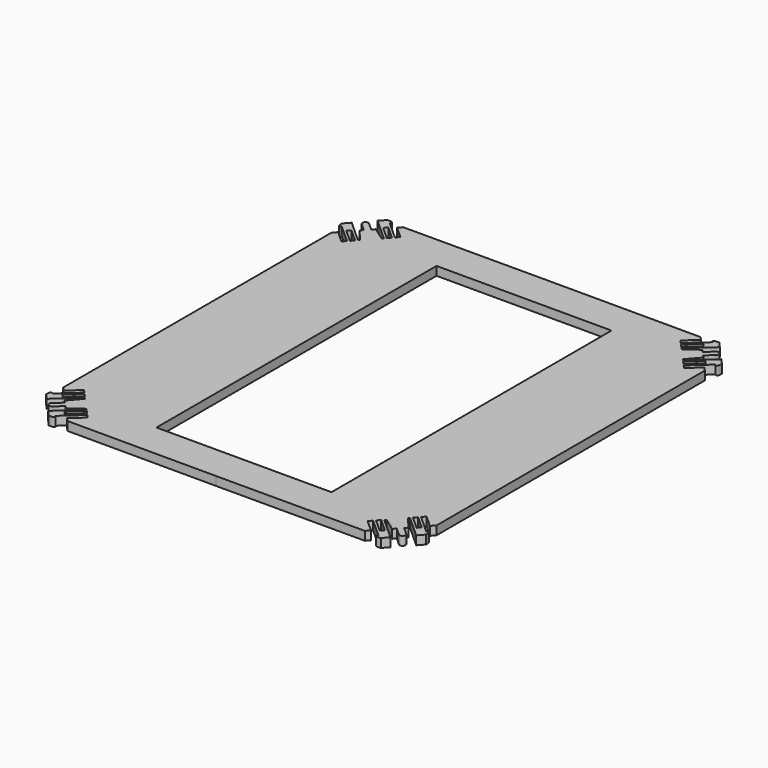
from build123d import *

# Parameters (mm, degrees)
F1_DEPTH = 3
F4_W     = 60
F4_H     = 120
F5_DEPTH = 3


with BuildPart() as f1:
    # F0 (on Top) → F1 (new body)
    with BuildSketch(Plane.XY):
        with BuildLine():
            Line((64, 0), (64, 57.4883735822))
            Line((64, 57.4883735822), (62.8046343071, 58.8159616805))
            Line((62.8046343071, 58.8159616805), (58.717337767, 55.1357433455))
            Line((58.717337767, 55.1357433455), (57.7064563618, 56.2584408851))
            Line((57.7064563618, 56.2584408851), (64.0975018609, 62.0129640998))
            add(Edge.make_bspline(
                [(64.0975018609, 62.0129640998), (64.2947499686, 61.8134944285), (64.7475356166, 61.0205339905), (65.2331012875, 62.6495131608), (65.0931958217, 63.4477440608)],
                knots=[0, 0, 0, 0, 0.3763533344, 1, 1, 1, 1], degree=3))
            Line((65.0931958217, 63.4477440608), (63.3534562452, 65.379920607))
            Line((63.3534562452, 65.379920607), (55.6990645427, 58.4878753615))
            Line((55.6990645427, 58.4878753615), (55.3495648702, 59.0087018934))
            Line((55.3495648702, 59.0087018934), (58.971833562, 63.1474419824))
            Line((58.971833562, 63.1474419824), (58.1506918082, 64.0594122905))
            Line((58.1506918082, 64.0594122905), (60.7529463893, 66.4024928396))
            ThreePointArc((60.7529463893, 66.4024928396), (60.8269606084, 67.8147682715), (59.4146851766, 67.8887824906))
            Line((59.4146851766, 67.8887824906), (56.8124305955, 65.5457019415))
            Line((56.8124305955, 65.5457019415), (55.9912888418, 66.4576722496))
            Line((55.9912888418, 66.4576722496), (51.4965910242, 63.2878628661))
            Line((51.4965910242, 63.2878628661), (51.0151502982, 63.6898891399))
            Line((51.0151502982, 63.6898891399), (58.6695420007, 70.5819343854))
            Line((58.6695420007, 70.5819343854), (56.9298024241, 72.5141109316))
            add(Edge.make_bspline(
                [(55.3988039783, 71.673846831), (55.2210450643, 71.8908646511), (54.4797575345, 72.424056828), (56.1505684198, 72.7366878299), (56.9298024241, 72.5141109316)],
                knots=[0, 0, 0, 0, 0.3763533344, 1, 1, 1, 1], degree=3))
            Line((55.3988039783, 71.673846831), (49.0077584792, 65.9193236163))
            Line((49.0077584792, 65.9193236163), (47.996877074, 67.0420211559))
            Line((47.996877074, 67.0420211559), (52.0841736141, 70.7222394909))
            Line((52.0841736141, 70.7222394909), (50.9930178895, 71.9340906943))
            Line((50.9930178895, 71.9340906943), (0, 72))
            Line((0, 72), (0, 0))
            Line((0, 0), (64, 0))
        make_face()
        Polygon((61.6300208296, 60.8677403836), (57.1711518767, 56.8529567455), (56.2343690278, 57.8933595012), (60.6932379807, 61.9081431393), align=None, mode=Mode.SUBTRACT)
        Polygon((50.4798458131, 64.2844050003), (49.5430629642, 65.3248077559), (54.0019319171, 69.3395913941), (54.938714766, 68.2991886384), align=None, mode=Mode.SUBTRACT)
    extrude(amount=F1_DEPTH)

    # F2: F1 across face


with BuildPart() as f1_1:
    add(f1.part)
    add(f1.part.mirror(Plane(origin=(0, 36, 1.5), x_dir=(0, -1, 0), z_dir=(-1, 0, 0))))

    # F3: F1 across face


with BuildPart() as f1_2:
    add(f1_1.part)
    add(f1_1.part.mirror(Plane(origin=(0, 0, 1.5), x_dir=(1, 0, 0), z_dir=(0, -1, 0))))

    # F4 (on face) → F5 (cut)
    with BuildSketch(Plane.XY.offset(3)):
        Rectangle(F4_W, F4_H)
    extrude(amount=-F5_DEPTH, mode=Mode.SUBTRACT)


solid = f1_2.part
